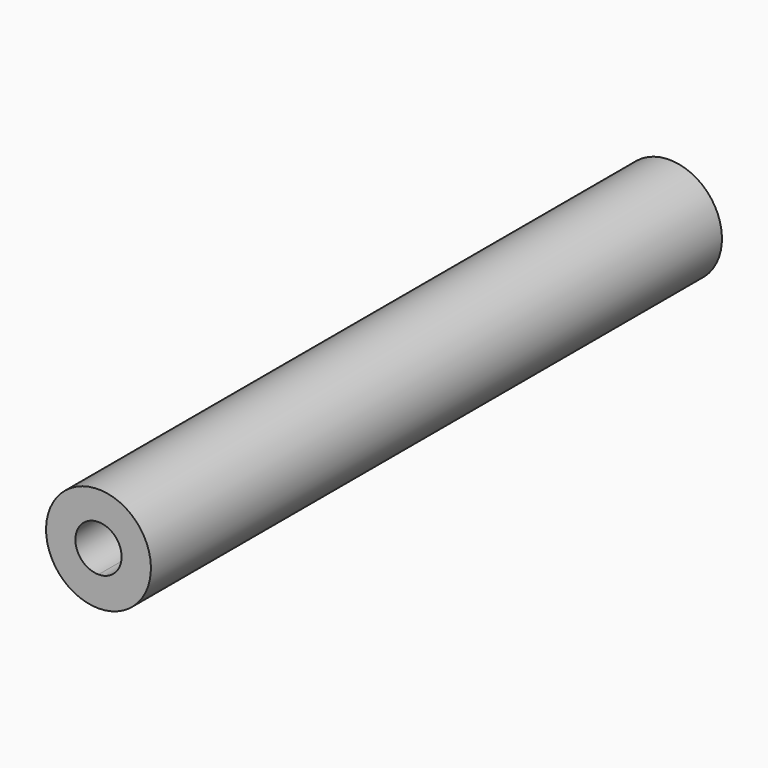
from build123d import *

# Parameters (mm, degrees)
F4_DEPTH = 25.4


with BuildPart() as f1:
    # F0 (on Right) → F1 (revolve)
    with BuildSketch(Plane.YZ):
        Polygon((-47.755392, 8.33755), (-47.755392, 0), (65.757208, 0), (65.757208, 6.35), (-43.792992, 6.35), (-43.792992, 8.33755), align=None)
    revolve(axis=Axis((0, -45.774192, 8.33755), (0, -1, 0)))

    # F3 (on offset) → F4 (cut)
    with BuildSketch(Plane.XZ.offset(48.26)):
        with BuildLine():
            ThreePointArc((0, 12.10002), (-3.677915, 8.422106), (0, 4.744191))
            Line((0, 4.744191), (0, 8.422106))
            Line((0, 8.422106), (0, 12.10002))
        make_face()
        with BuildLine():
            Line((0, 8.422106), (0, 4.744191))
            ThreePointArc((0, 4.744191), (2.600678, 5.821427), (3.677915, 8.422106))
            ThreePointArc((3.677915, 8.422106), (2.600678, 11.022784), (0, 12.10002))
            Line((0, 12.10002), (0, 8.422106))
        make_face()
    extrude(amount=-F4_DEPTH, mode=Mode.SUBTRACT)


solid = f1.part
